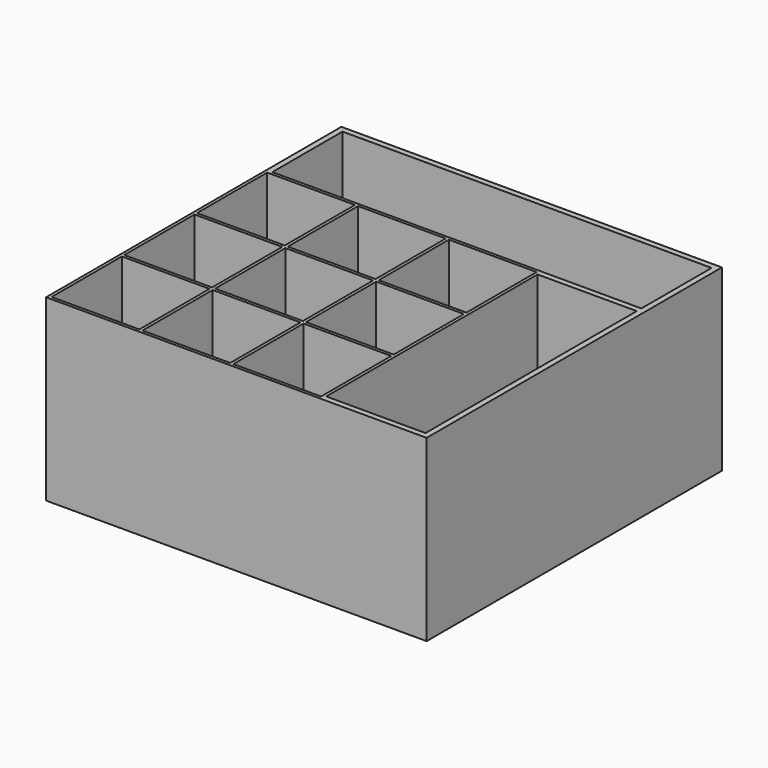
from build123d import *

# Parameters (mm, degrees)
F0_W     = 23
F0_H     = 23
F0_R     = 8.5
F1_DEPTH = 0.9
F2_DEPTH = 46.9
F0_W_2   = 26
F0_H_2   = 69.2
F3_DEPTH = 13


with BuildPart() as f1:
    # F0 (on Top) → F1 (new body)
    with BuildSketch(Plane.XY):
        with Locations((-23.8, 23.8)):
            Rectangle(F0_W, F0_H)
        with Locations((-23.8, 23.8)):
            Circle(F0_R, mode=Mode.SUBTRACT)
        with Locations((0, 23.8)):
            Rectangle(F0_W, F0_H)
        with Locations((0, 23.8)):
            Circle(F0_R, mode=Mode.SUBTRACT)
        with Locations((23.8, 23.8)):
            Rectangle(F0_W, F0_H)
        with Locations((23.8, 23.8)):
            Circle(F0_R, mode=Mode.SUBTRACT)
        with Locations((23.8, 0)):
            Rectangle(F0_W, F0_H)
        with Locations((23.8, 0)):
            Circle(F0_R, mode=Mode.SUBTRACT)
        Rectangle(F0_W, F0_H)
        Circle(F0_R, mode=Mode.SUBTRACT)
        with Locations((-23.8, 0)):
            Rectangle(F0_W, F0_H)
        with Locations((-23.8, 0)):
            Circle(F0_R, mode=Mode.SUBTRACT)
        with Locations((-23.8, -23.8)):
            Rectangle(F0_W, F0_H)
        with Locations((-23.8, -23.8)):
            Circle(F0_R, mode=Mode.SUBTRACT)
        with Locations((0, -23.8)):
            Rectangle(F0_W, F0_H)
        with Locations((0, -23.8)):
            Circle(F0_R, mode=Mode.SUBTRACT)
        with Locations((23.8, -23.8)):
            Rectangle(F0_W, F0_H)
        with Locations((23.8, -23.8)):
            Circle(F0_R, mode=Mode.SUBTRACT)
        Polygon((-34.6, 36.9), (-34.6, 36.1), (36.1, 36.1), (62.1, 36.1), (62.1, 36.9), (62.1, 59.1), (-34.6, 59.1), align=None)
    extrude(amount=F1_DEPTH)


with BuildPart() as f2:
    # F0 (on Top) → F2 (new body)
    with BuildSketch(Plane.XY):
        Polygon((-36.1, 60.6), (-36.1, 36.1), (-34.6, 36.1), (-34.6, 36.9), (-34.6, 59.1), (62.1, 59.1), (62.1, 36.9), (62.1, 36.1), (63.6, 36.1), (63.6, 60.6), align=None)
        Polygon((36.1, -34.6), (36.1, -36.1), (63.6, -36.1), (63.6, 36.1), (62.1, 36.1), (36.1, 36.1), (36.1, 34.6), (62.1, 34.6), (62.1, -34.6), align=None)
        Polygon((-34.6, 36.1), (-36.1, 36.1), (-36.1, -36.1), (36.1, -36.1), (36.1, -34.6), (36.1, 34.6), (36.1, 36.1), align=None)
        with Locations((-23.8, -23.8)):
            Rectangle(F0_W, F0_H, mode=Mode.SUBTRACT)
        with Locations((0, -23.8)):
            Rectangle(F0_W, F0_H, mode=Mode.SUBTRACT)
        with Locations((-23.8, 0)):
            Rectangle(F0_W, F0_H, mode=Mode.SUBTRACT)
        Rectangle(F0_W, F0_H, mode=Mode.SUBTRACT)
        with Locations((23.8, -23.8)):
            Rectangle(F0_W, F0_H, mode=Mode.SUBTRACT)
        with Locations((23.8, 0)):
            Rectangle(F0_W, F0_H, mode=Mode.SUBTRACT)
        with Locations((-23.8, 23.8)):
            Rectangle(F0_W, F0_H, mode=Mode.SUBTRACT)
        with Locations((0, 23.8)):
            Rectangle(F0_W, F0_H, mode=Mode.SUBTRACT)
        with Locations((23.8, 23.8)):
            Rectangle(F0_W, F0_H, mode=Mode.SUBTRACT)
    extrude(amount=F2_DEPTH)

    # F0 (on Top) → F3 (join)
    with BuildSketch(Plane.XY):
        with Locations((49.1, 0)):
            Rectangle(F0_W_2, F0_H_2)
    extrude(amount=F3_DEPTH)


solid = Compound([f1.part, f2.part])
